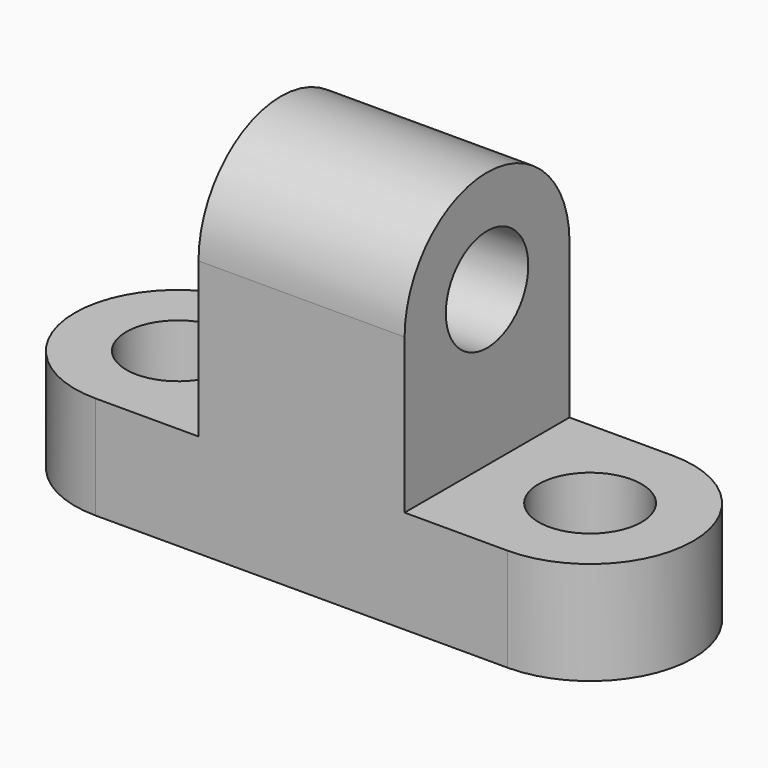
from build123d import *

# Parameters (mm, degrees)
F0_W      = 50.8
F0_H      = 25.4
F1_DEPTH  = 12.7
F2_R      = 12.7
F3_DEPTH  = 12.7
F4_R      = 12.7
F5_DEPTH  = 12.7
F6_W      = 25.4
F6_H      = 25.4
F7_DEPTH  = 19.05
F8_R      = 12.7
F9_DEPTH  = 25.4
F10_R     = 6.35
F11_DEPTH = 25.4
F12_R     = 6.35
F13_DEPTH = 12.7


with BuildPart() as f1:
    # F0 (on Top) → F1 (new body)
    with BuildSketch(Plane.XY):
        with Locations((25.4, 12.7)):
            Rectangle(F0_W, F0_H)
    extrude(amount=F1_DEPTH)

    # F2 (on face) → F3 (join)
    with BuildSketch(Plane.XY.offset(12.7)):
        with Locations((0, 12.7)):
            Circle(F2_R)
    extrude(amount=-F3_DEPTH)

    # F4 (on face) → F5 (join)
    with BuildSketch(Plane.XY.offset(12.7)):
        with Locations((50.8, 12.7)):
            Circle(F4_R)
    extrude(amount=-F5_DEPTH)

    # F6 (on face) → F7 (join)
    with BuildSketch(Plane.XY.offset(12.7)):
        with Locations((25.4, 12.7)):
            Rectangle(F6_W, F6_H)
    extrude(amount=F7_DEPTH)

    # F8 (on face) → F9 (join)
    with BuildSketch(Plane(origin=(12.7, 0, 0), x_dir=(0, -1, 0), z_dir=(-1, 0, 0))):
        with Locations((-12.7, 31.75)):
            Circle(F8_R)
    extrude(amount=-F9_DEPTH)

    # F10 (on face) → F11 (cut)
    with BuildSketch(Plane(origin=(12.7, 0, 0), x_dir=(0, -1, 0), z_dir=(-1, 0, 0))):
        with Locations((-12.7, 31.75)):
            Circle(F10_R)
    extrude(amount=-F11_DEPTH, mode=Mode.SUBTRACT)

    # F12 (on face) → F13 (cut)
    with BuildSketch(Plane.XY.offset(12.7)):
        with Locations((50.8, 12.7)):
            Circle(F12_R)
        with Locations((0, 12.7)):
            Circle(F12_R)
    extrude(amount=-F13_DEPTH, mode=Mode.SUBTRACT)


solid = f1.part
